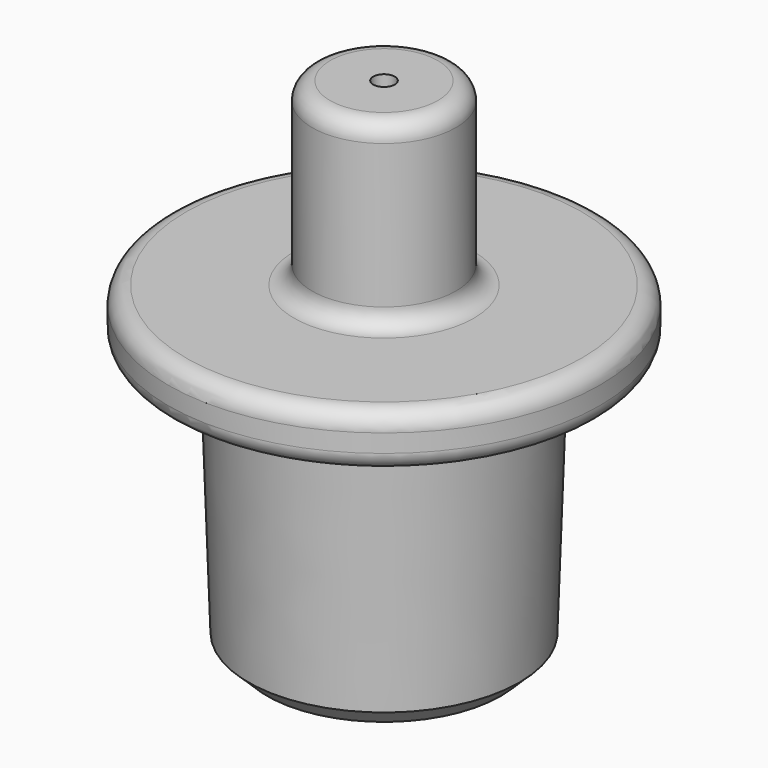
from build123d import *

# Parameters (mm, degrees)
F2_R    = 1
F3_SIZE = 1


with BuildPart() as f1:
    # F0 (on Front) → F1 (revolve)
    with BuildSketch(Plane.XZ):
        Polygon((4, 16.67762), (0.6, 16.67762), (0.6, -11.32238), (7.5, -11.32238), (8, 3.67762), (12, 3.67762), (12, 6.67762), (4, 6.67762), align=None)
        Polygon((4, 16.67762), (0.6, 16.67762), (0.6, -11.32238), (7.5, -11.32238), (8, 3.67762), (12, 3.67762), (12, 6.67762), (4, 6.67762), align=None)
    revolve(axis=Axis((0, 0, 0.295774), (0, 0, -1)))

    # F2
    f2_edges = [f1.edges().sort_by_distance(p)[0] for p in [
        (-8, 0, 3.67762),
        (-12, 0, 3.67762),
        (-12, 0, 6.67762),
        (-4, 0, 16.67762),
        (-4, 0, 6.67762),
    ]]
    fillet(f2_edges, radius=F2_R)

    # F3
    f3_edges = [f1.edges().sort_by_distance(p)[0] for p in [
        (-7.5, 0, -11.32238),
    ]]
    chamfer(f3_edges, length=F3_SIZE)


solid = f1.part
